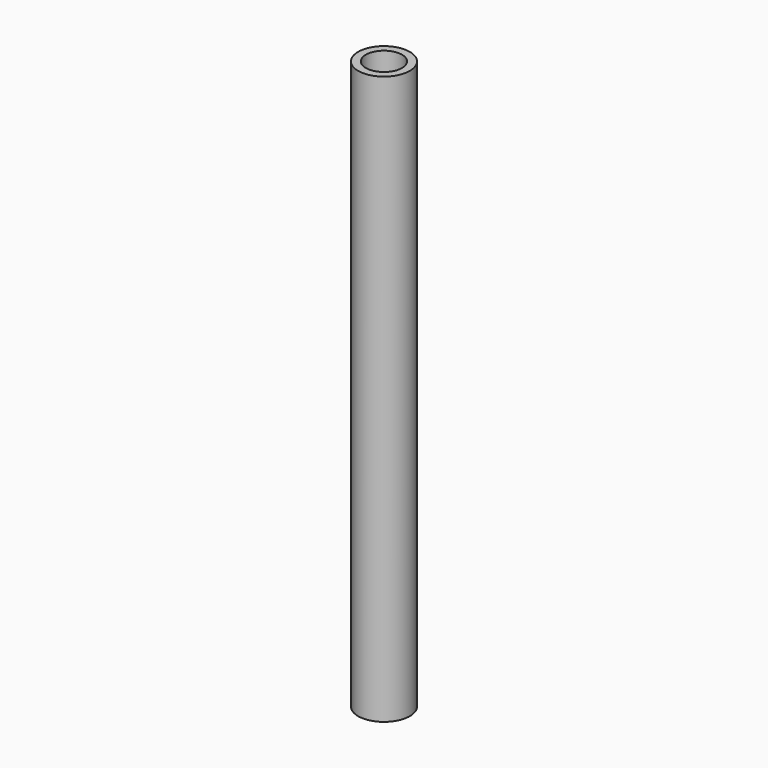
from build123d import *

# Parameters (mm, degrees)
F2_T = -1.5


with BuildPart() as f1:
    # F0 (on Front) → F1 (revolve)
    with BuildSketch(Plane.XZ):
        Polygon((-5, 55), (-5, 0), (-5, -55), (0, -55), (0, 55), align=None)
    revolve(axis=Axis((0, 0, 0), (0, 0, -1)))

    # F2
    f2_openings = [f1.faces().sort_by_distance(p)[0] for p in [
        (0, 0, 55),
        (0, 0, -55),
    ]]
    offset(amount=F2_T, openings=f2_openings)


solid = f1.part
